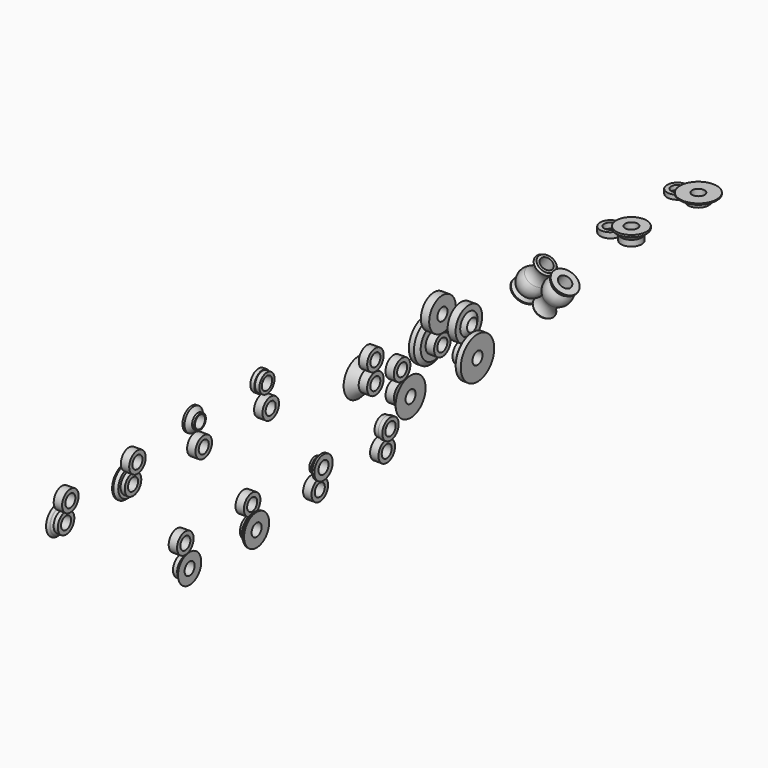
from build123d import *

# Parameters (mm, degrees)
F11_W = 20
F11_H = 9.7
F12_W = 20
F12_H = 9.7
F13_W = 20
F13_H = 9.7
F14_W = 20
F14_H = 9.7
F15_W = 20
F15_H = 9.7
F16_W = 20
F16_H = 24.7
F18_W = 9.7
F18_H = 13
F19_W = 9.7
F19_H = 10.642184


with BuildPart() as f20:
    # F16 (on offset) → F20 (revolve)
    with BuildSketch(Plane.XZ.offset(-1200)):
        Polygon((64.367883, 25), (64.367883, 0.3), (83.4, 0.3), (83.4, 14.095166), (91.092514, 25), align=None)
    revolve(axis=Axis((88.076424, 1200, 40), (1, 0, 0)))


with BuildPart() as f21:
    # F16 (on offset) → F21 (revolve)
    with BuildSketch(Plane.XZ.offset(-1200)):
        Polygon((91.826778, 25), (84, 13.904834), (84, -0.3), (64, -0.3), (64, -10), (104, -10), (104, 25), align=None)
    revolve(axis=Axis((200.658701, 1200, -25), (1, 0, 0)))


with BuildPart() as f22:
    # F11 (on offset) → F22 (revolve)
    with BuildSketch(Plane.XZ.offset(-200)):
        with Locations((-78.875736, 5.15)):
            Rectangle(F11_W, F11_H)
        with Locations((195.875736, 5.15)):
            Rectangle(F11_W, F11_H)
    revolve(axis=Axis((201.341614, 200, 25), (1, 0, 0)))


with BuildPart() as f23:
    # F11 (on offset) → F23 (revolve)
    with BuildSketch(Plane.XZ.offset(-200)):
        Polygon((-79.124264, -10), (-79.124264, -0.3), (-89.124264, -0.3), (-93.454773, 4.030509), (-94.16188, 4.737615), (-99.124264, 9.7), (-99.124264, -10), align=None)
        Polygon((210.454773, 4.030509), (206.124264, -0.3), (196.124264, -0.3), (196.124264, -10), (216.124264, -10), (216.124264, 9.7), align=None)
    revolve(axis=Axis((200.658701, 200, -25), (1, 0, 0)))


with BuildPart() as f24:
    # F12 (on offset) → F24 (revolve)
    with BuildSketch(Plane.XZ.offset(-400)):
        with Locations((-78.524264, 5.15)):
            Rectangle(F12_W, F12_H)
        with Locations((195.524264, 5.15)):
            Rectangle(F12_W, F12_H)
    revolve(axis=Axis((201.341614, 400, 25), (1, 0, 0)))


with BuildPart() as f25:
    # F12 (on offset) → F25 (revolve)
    with BuildSketch(Plane.XZ.offset(-400)):
        Polygon((-99.124264, 12.5), (-99.124264, -10), (-79.124264, -10), (-79.124264, -0.3), (-89.124264, -0.3), (-89.124264, 6.7), (-96.124264, 12.5), align=None)
        Polygon((206.124264, -0.3), (196.124264, -0.3), (196.124264, -10), (216.124264, -10), (216.124264, 12.5), (213.124264, 12.5), (206.124264, 6.7), align=None)
    revolve(axis=Axis((200.658701, 400, -25), (1, 0, 0)))


with BuildPart() as f26:
    # F13 (on offset) → F26 (revolve)
    with BuildSketch(Plane.XZ.offset(-600)):
        Polygon((201.048376, 7.5), (211.048376, -2.5), (216.048376, -2.5), (216.048376, 10), (196.048376, 10), (196.048376, 7.5), align=None)
        Polygon((-99.048376, -2.5), (-94.048376, -2.5), (-84.048376, 7.5), (-79.048376, 7.5), (-79.048376, 10), (-99.048376, 10), align=None)
    revolve(axis=Axis((201.341614, 600, 25), (1, 0, 0)))


with BuildPart() as f27:
    # F13 (on offset) → F27 (revolve)
    with BuildSketch(Plane.XZ.offset(-600)):
        with Locations((-80.123388, -5.15)):
            Rectangle(F13_W, F13_H)
        with Locations((197.123388, -5.15)):
            Rectangle(F13_W, F13_H)
    revolve(axis=Axis((200.658701, 600, -25), (1, 0, 0)))


with BuildPart() as f28:
    # F14 (on offset) → F28 (revolve)
    with BuildSketch(Plane.XZ.offset(-800)):
        Polygon((196.080888, 9.549363), (196.080888, 2.3), (206.124264, 2.3), (206.580888, 2.3), (206.580888, 0.5), (216.080888, 0.5), (216.080888, 9.549363), align=None)
        Polygon((-89.580888, 2.3), (-79.080888, 2.3), (-79.080888, 9.549363), (-99.080888, 9.549363), (-99.080888, 0.5), (-89.580888, 0.5), align=None)
    revolve(axis=Axis((201.341614, 800, 25), (1, 0, 0)))


with BuildPart() as f29:
    # F14 (on offset) → F29 (revolve)
    with BuildSketch(Plane.XZ.offset(-800)):
        with Locations((197.123388, -5.15)):
            Rectangle(F14_W, F14_H)
        with Locations((-80.123388, -5.15)):
            Rectangle(F14_W, F14_H)
    revolve(axis=Axis((200.658701, 800, -25), (1, 0, 0)))


with BuildPart() as f30:
    # F15 (on offset) → F30 (revolve)
    with BuildSketch(Plane.XZ.offset(-1000)):
        with Locations((73.875736, 5.15)):
            Rectangle(F15_W, F15_H)
        with Locations((10.124264, 5.15)):
            Rectangle(F15_W, F15_H)
    revolve(axis=Axis((201.341614, 1000, 25), (1, 0, 0)))


with BuildPart() as f31:
    # F15 (on offset) → F31 (revolve)
    with BuildSketch(Plane.XZ.offset(-1000)):
        Polygon((104.124264, 19.7), (84.124264, -0.3), (64.124264, -0.3), (64.124264, -10), (104.124264, -10), align=None)
        Polygon((19.875736, -10), (19.875736, -0.3), (-0.124264, -0.3), (-20.124264, 19.7), (-20.124264, -10), align=None)
    revolve(axis=Axis((200.658701, 1000, -25), (1, 0, 0)))


with BuildPart() as f32:
    # F16 (on offset) → F32 (revolve)
    with BuildSketch(Plane.XZ.offset(-1200)):
        Polygon((64.367883, 25), (64.367883, 0.3), (83.4, 0.3), (83.4, 14.095166), (91.092514, 25), align=None)
        with Locations((10.3, 12.65)):
            Rectangle(F16_W, F16_H)
    revolve(axis=Axis((88.076424, 1200, 40), (1, 0, 0)))


with BuildPart() as f33:
    # F16 (on offset) → F33 (revolve)
    with BuildSketch(Plane.XZ.offset(-1200)):
        Polygon((20, -10), (20, -0.3), (-0.3, -0.3), (-0.3, 14.330112), (-7.826778, 25), (-20, 25), (-20, -10), align=None)
        Polygon((91.826778, 25), (84, 13.904834), (84, -0.3), (64, -0.3), (64, -10), (104, -10), (104, 25), align=None)
    revolve(axis=Axis((200.658701, 1200, -25), (1, 0, 0)))


with BuildPart() as f34:
    # F17 (on offset) → F34 (revolve)
    with BuildSketch(Plane.XZ.offset(-1400)):
        with BuildLine():
            ThreePointArc((104.905314, 44.479234), (110.328894, 63.575812), (126.409652, 75.216418))
            Line((126.409652, 75.216418), (126.409652, 81.334531))
            Line((126.409652, 81.334531), (121.424394, 84.849941))
            Line((121.424394, 84.849941), (69.194932, 10.782519))
            Line((69.194932, 10.782519), (81.716523, 1.95278))
            Line((81.716523, 1.95278), (83.4, 4.340145))
            Line((83.4, 4.340145), (83.4, 14.225506))
            ThreePointArc((83.4, 14.225506), (99.460961, 25.579058), (104.905314, 44.479234))
        make_face()
    revolve(axis=Axis((91.214182, 1400, 68.03694), (0.57629, 0, 0.817245)))


with BuildPart() as f35:
    # F17 (on offset) → F35 (revolve)
    with BuildSketch(Plane.XZ.offset(-1400)):
        with BuildLine():
            Line((127.009652, 84.652521), (127.009652, 74.76716))
            ThreePointArc((127.009652, 74.76716), (110.948691, 63.413607), (105.504338, 44.513432))
            ThreePointArc((105.504338, 44.513432), (100.080758, 25.416854), (84, 13.776247))
            Line((84, 13.776247), (84, 7.658134))
            Line((84, 7.658134), (88.985258, 4.142724))
            Line((88.985258, 4.142724), (141.21472, 78.210147))
            Line((141.21472, 78.210147), (128.693129, 87.039886))
            Line((128.693129, 87.039886), (127.009652, 84.652521))
        make_face()
    revolve(axis=Axis((132.076457, 1400, 39.222456), (0.57629, 0, 0.817245)))


with BuildPart() as f36:
    # F18 (on offset) → F36 (revolve)
    with BuildSketch(Plane.XZ.offset(-1600)):
        Polygon((116.810157, 99.316425), (127.009652, 89.11693), (127.009652, 74.992666), (136.709652, 74.992666), (136.709652, 105.546349), (115.410986, 105.546349), (115.410986, 100.715595), align=None)
    revolve(axis=Axis((151.709652, 1600, 85.977798), (0, 0, -1)))


with BuildPart() as f37:
    # F18 (on offset) → F37 (revolve)
    with BuildSketch(Plane.XZ.offset(-1600)):
        with Locations((121.559652, 82.368402)):
            Rectangle(F18_W, F18_H)
    revolve(axis=Axis((101.709652, 1600, 89.992199), (0, 0, -1)))


with BuildPart() as f38:
    # F19 (on offset) → F38 (revolve)
    with BuildSketch(Plane.XZ.offset(-1800)):
        Polygon((127.009652, 89.11693), (127.009652, 75.43167), (136.709652, 75.43167), (136.709652, 94.581595), (107.74266, 94.581595), (107.74266, 92.046864), (112.227037, 89.11693), (113.009652, 89.11693), align=None)
    revolve(axis=Axis((151.709652, 1800, 85.977798), (0, 0, -1)))


with BuildPart() as f39:
    # F19 (on offset) → F39 (revolve)
    with BuildSketch(Plane.XZ.offset(-1800)):
        with Locations((121.559652, 81.195838)):
            Rectangle(F19_W, F19_H)
    revolve(axis=Axis((101.709652, 1800, 89.992199), (0, 0, -1)))


solid = Compound([f20.part, f21.part, f22.part, f23.part, f24.part, f25.part, f26.part, f27.part, f28.part, f29.part, f30.part, f31.part, f32.part, f33.part, f34.part, f35.part, f36.part, f37.part, f38.part, f39.part])
